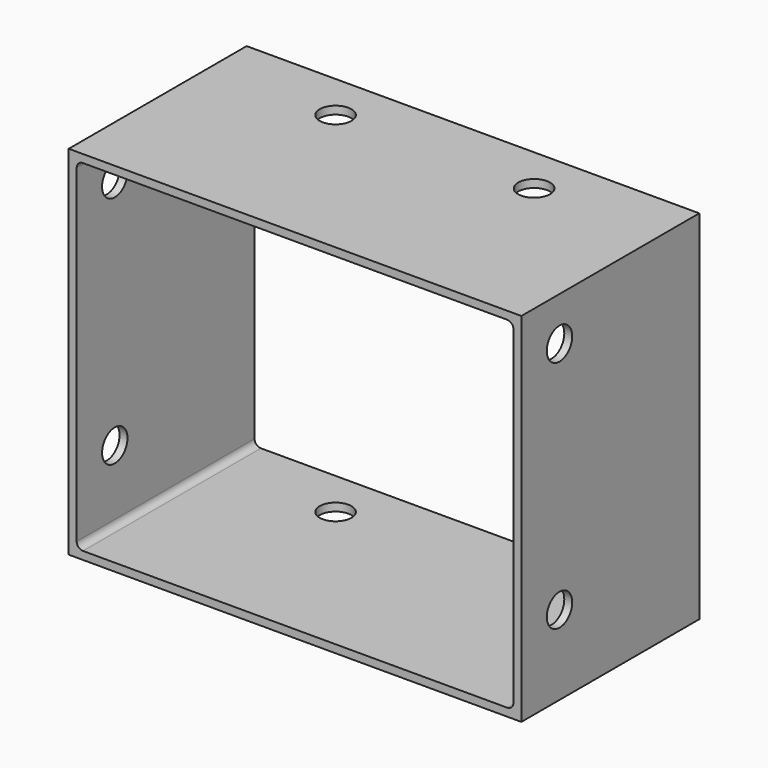
from build123d import *

# Parameters (mm, degrees)
F0_W     = 361.95
F0_H     = 285.75
F0_W_2   = 349.25
F0_H_2   = 273.05
F1_DEPTH = 88.9
F2_R     = 5.08
F4_D     = 25.4
F6_D     = 25.4


with BuildPart() as f1:
    # F0 (on Front) → F1 (new body, symmetric)
    with BuildSketch(Plane.XZ):
        Rectangle(F0_W, F0_H)
        Rectangle(F0_W_2, F0_H_2, mode=Mode.SUBTRACT)
    extrude(amount=F1_DEPTH, both=True)

    # F2
    f2_edges = [f1.edges().sort_by_distance(p)[0] for p in [
        (-174.625, 0, -136.525),
        (174.625, 0, -136.525),
        (174.625, 0, 136.525),
        (-174.625, 0, 136.525),
    ]]
    fillet(f2_edges, radius=F2_R)

    # F4 (through all)
    with Locations(Plane.XY.offset(142.875)):
        with Locations((-79.375005, 50.8), (79.375, 50.8)):
            Hole(F4_D / 2)

    # F6 (through all)
    with Locations(Plane(origin=(-180.975, 0, 0), x_dir=(0, -1, 0), z_dir=(-1, 0, 0))):
        with Locations((50.799999, 107.95), (50.8, -79.375006)):
            Hole(F6_D / 2)


solid = f1.part
